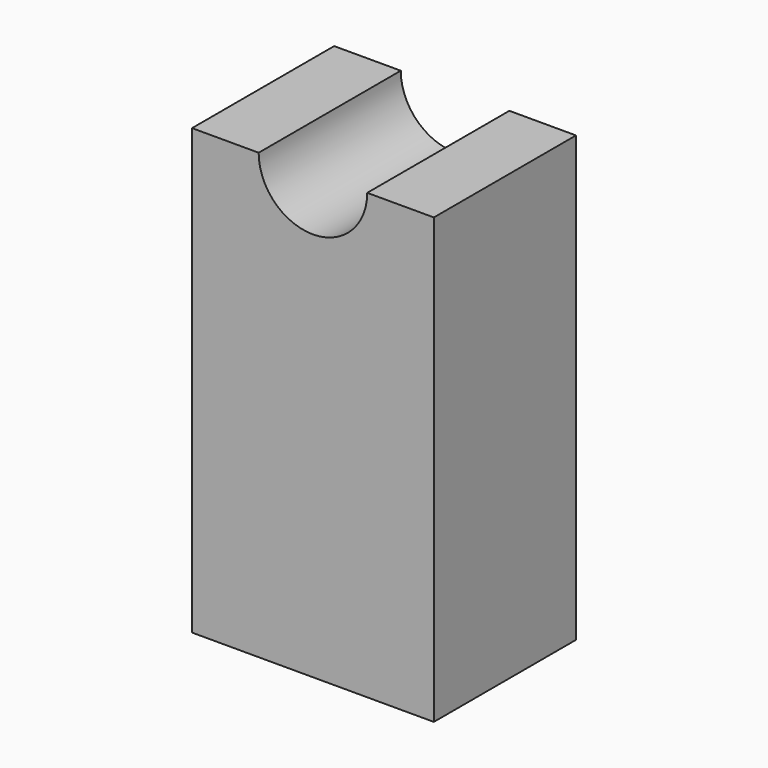
from build123d import *

# Parameters (mm, degrees)
F1_DEPTH = 45.72


with BuildPart() as f1:
    # F0 (on Front) → F1 (new body)
    with BuildSketch(Plane.XZ):
        with BuildLine():
            Line((0, 114.3), (0, 0))
            Line((0, 0), (62.23, 0))
            Line((62.23, 0), (62.23, 114.3))
            Line((62.23, 114.3), (45.085, 114.3))
            ThreePointArc((45.085, 114.3), (31.115, 100.33), (17.145, 114.3))
            Line((17.145, 114.3), (0, 114.3))
        make_face()
    extrude(amount=-F1_DEPTH)


solid = f1.part
